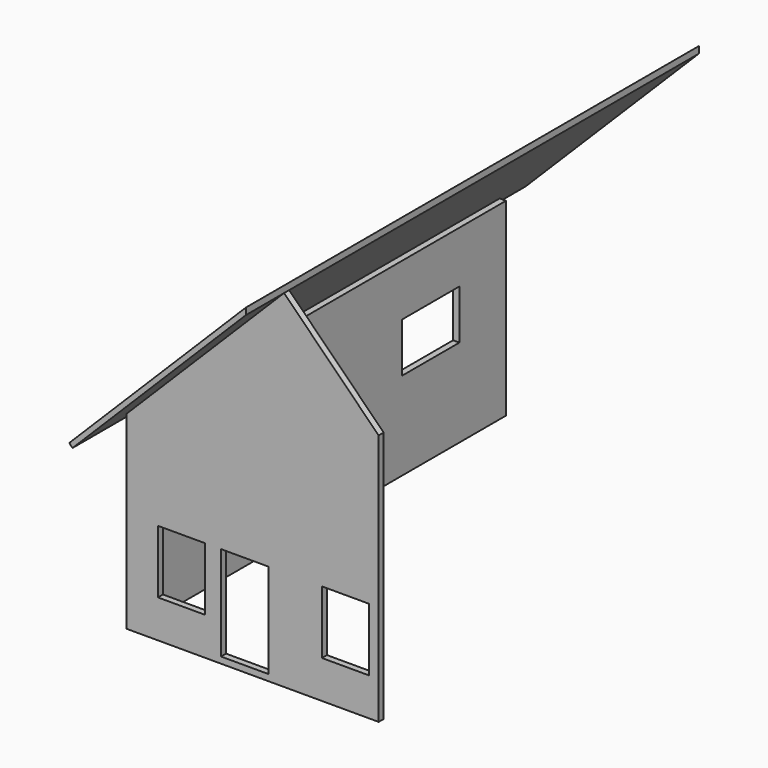
from build123d import *

# Parameters (mm, degrees)
F1_W          = 15
F1_H          = 20
F1_H_2        = 30
F2_DEPTH      = 2
F4_W          = 146
F4_H          = 60
F4_W_2        = 22.3559141159
F4_H_2        = 13.6698782444
F4_W_3        = 22.733643651
F4_H_3        = 15.6874321401
F5_DEPTH      = 2
F7_DEPTH      = 164.4430011511
F7_DEPTH_BACK = 15.1107646525


with BuildPart() as f2:
    # F1 (on Front) → F2 (new body, through all)
    with BuildSketch(Plane.XZ):
        Polygon((-80, 60), (-80, 0), (0, 0), (0, 80), (-30, 110), align=None)
        with Locations((-62.5, 22)):
            Rectangle(F1_W, F1_H, mode=Mode.SUBTRACT)
        with Locations((-42.5, 17)):
            Rectangle(F1_W, F1_H_2, mode=Mode.SUBTRACT)
        with Locations((-10.5, 22)):
            Rectangle(F1_W, F1_H, mode=Mode.SUBTRACT)
    extrude(amount=-F2_DEPTH)


with BuildPart() as f5:
    # F4 (on plane+point) → F5 (new body, through all)
    with BuildSketch(Plane.YZ.offset(-80)):
        with Locations((75, 30)):
            Rectangle(F4_W, F4_H)
        with Locations((50.283376893, 25.1650608778)):
            Rectangle(F4_W_2, F4_H_2, mode=Mode.SUBTRACT)
        with Locations((118.1431487203, 35.7470754534)):
            Rectangle(F4_W_3, F4_H_3, mode=Mode.SUBTRACT)
    extrude(amount=F5_DEPTH)


with BuildPart() as f7:
    # F6 (on Front) → F7 (new body, two sides)
    with BuildSketch(Plane.XZ) as f7_sk:
        Polygon((-30, 110), (-30, 112.1213203436), (-86.0606601718, 56.0606601718), (-85, 55), align=None)
    extrude(amount=-F7_DEPTH)
    extrude(f7_sk.sketch, amount=F7_DEPTH_BACK)


solid = Compound([f2.part, f5.part, f7.part])
